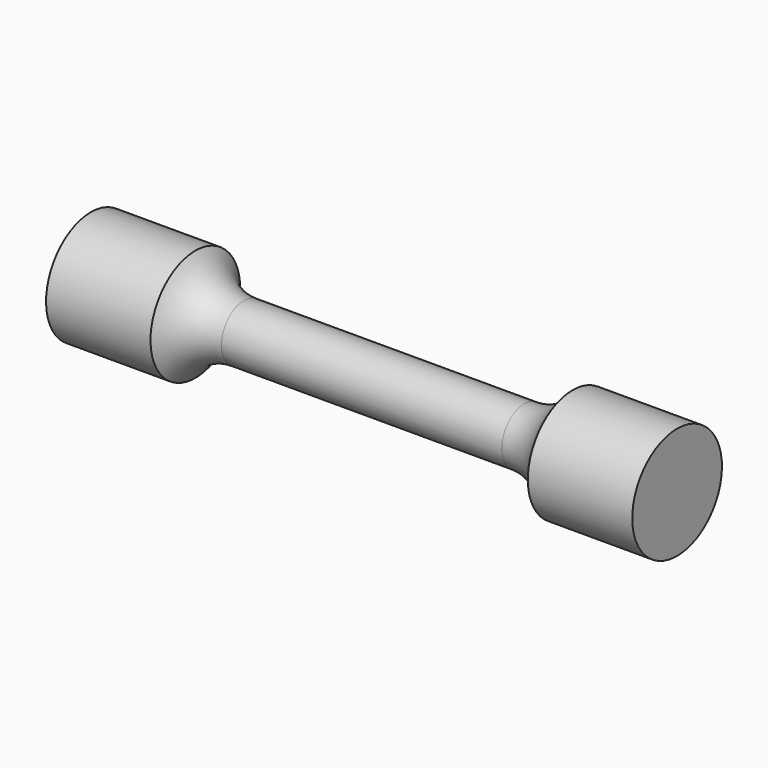
from build123d import *


with BuildPart() as f1:
    # F0 (on Front) → F1 (revolve)
    with BuildSketch(Plane.XZ):
        with BuildLine():
            Line((15, 3), (-15, 3))
            ThreePointArc((-15, 3), (-18, 3.803848), (-20.196152, 6))
            Line((-20.196152, 6), (-31.375, 6))
            Line((-31.375, 6), (-31.375, 0))
            Line((-31.375, 0), (31.375, 0))
            Line((31.375, 0), (31.375, 6))
            Line((31.375, 6), (20.196152, 6))
            ThreePointArc((20.196152, 6), (18, 3.803848), (15, 3))
        make_face()
    revolve(axis=Axis((0, 0, 0), (1, 0, 0)))


solid = f1.part
